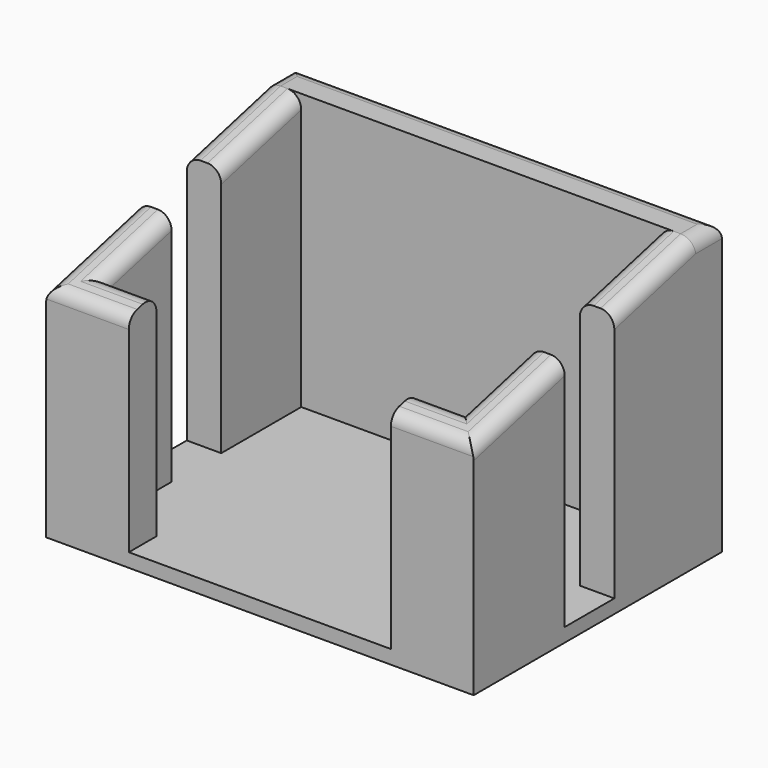
from build123d import *

# Parameters (mm, degrees)
F0_W     = 62
F0_H     = 45
F1_DEPTH = 42
F3_DEPTH = 40
F5_DEPTH = 62.001
F6_R     = 2


with BuildPart() as f1:
    # F0 (on Top) → F1 (new body)
    with BuildSketch(Plane.XY):
        Rectangle(F0_W, F0_H)
    extrude(amount=F1_DEPTH)

    # F2 (on face) → F3 (cut)
    with BuildSketch(Plane.XY.offset(42)):
        Polygon((-19, -17.5), (-19, -22.5), (19, -22.5), (19, -17.5), (26, -17.5), (26, -6), (31, -6), (31, 3), (26, 3), (26, 17.5), (-26, 17.5), (-26, 3), (-31, 3), (-31, -6), (-26, -6), (-26, -17.5), align=None)
    extrude(amount=-F3_DEPTH, mode=Mode.SUBTRACT)

    # F4 (on face) → F5 (cut, through all)
    with BuildSketch(Plane.YZ.offset(31)):
        Polygon((17.5, 42), (-22.5, 42), (-22.5, 32), align=None)
    extrude(amount=-F5_DEPTH, mode=Mode.SUBTRACT)

    # F6
    f6_edges = [f1.edges().sort_by_distance(p)[0] for p in [
        (22.5, -17.5, 33.25),
        (26, -11.75, 34.6875),
        (31, -14.25, 34.0625),
        (25, -22.5, 32),
        (26, 10.25, 40.1875),
        (-26, 10.25, 40.1875),
        (-31, -14.25, 34.0625),
        (-31, 10.25, 40.1875),
        (-26, -11.75, 34.6875),
        (-22.5, -17.5, 33.25),
        (-25, -22.5, 32),
        (31, 10.25, 40.1875),
        (31, 20, 42),
        (0, 22.5, 42),
        (-31, 20, 42),
    ]]
    fillet(f6_edges, radius=F6_R)


solid = f1.part
